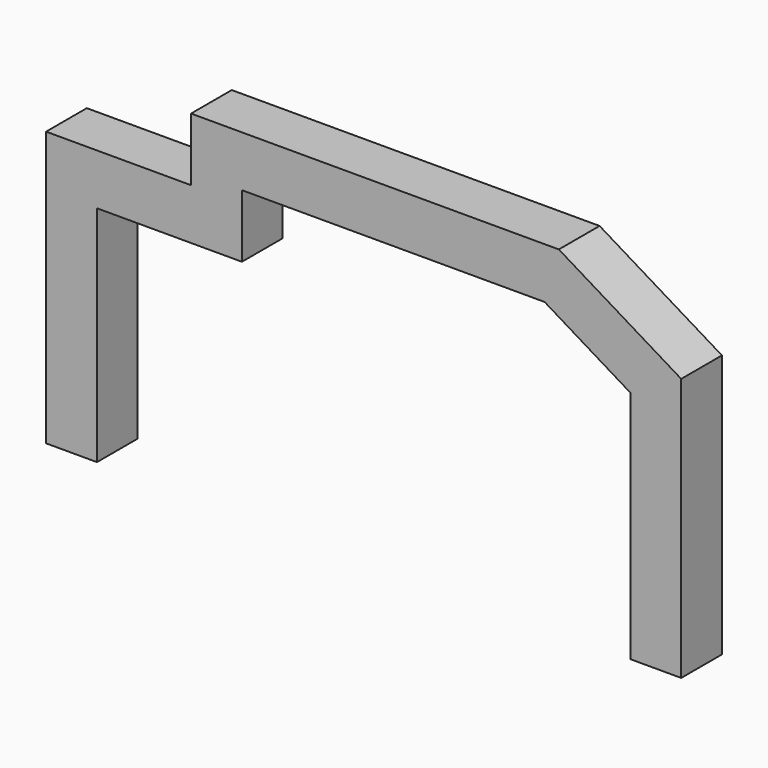
from build123d import *

# Parameters (mm, degrees)
F1_W = 9.0096890926
F1_H = 9.0096937492


with BuildPart() as f2:
    # F2: sweep along a path in F0
    with BuildLine(Plane.XZ) as f2_path:
        Line((-53.9602302015, 0), (-53.9602302015, 44.0691560507))
        Line((-53.9602302015, 44.0691560507), (-28.3021908253, 44.0691560507))
        Line((-28.3021908253, 44.0691560507), (-28.3021908253, 55.2333444357))
        Line((-28.3021908253, 55.2333444357), (31.0442727059, 55.2333444357))
        Line((31.0442727059, 55.2333444357), (49.4553856552, 44.0691560507))
        Line((49.4553856552, 44.0691560507), (49.4553856552, 0))
    # F1 (on Top) → F2 (sweep)
    with BuildSketch(Plane.XY):
        with Locations((-53.9602302015, 0)):
            Rectangle(F1_W, F1_H)
    sweep(path=f2_path.line, transition=Transition.RIGHT)


solid = f2.part
